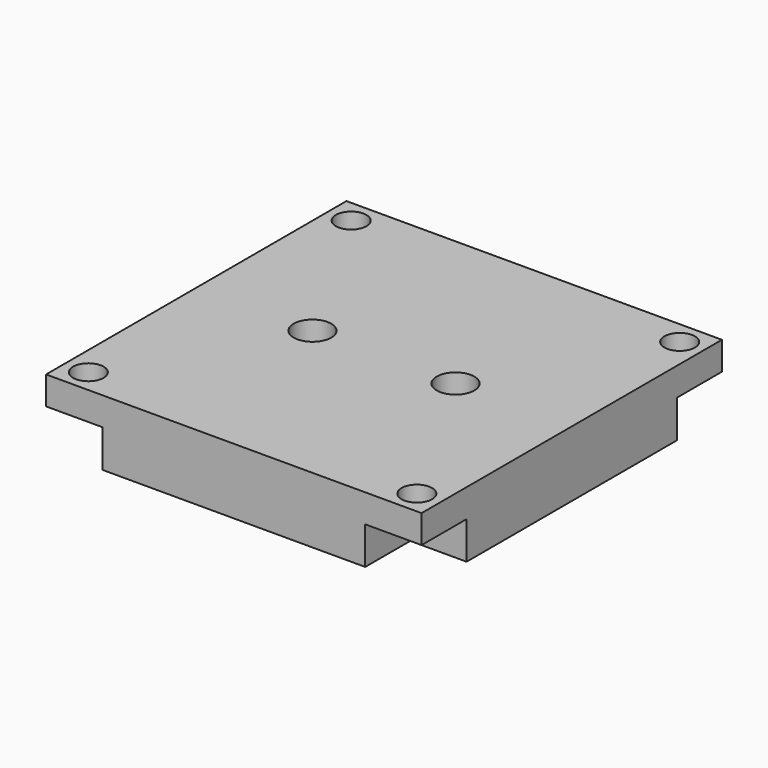
from build123d import *

# Parameters (mm, degrees)
F0_W     = 40
F0_H     = 40
F0_R     = 1.6256
F0_R_2   = 2.0066
F1_DEPTH = 7
F2_W     = 6
F2_H     = 6
F2_R     = 1.6256
F3_DEPTH = 4


with BuildPart() as f1:
    # F0 (on Top) → F1 (new body)
    with BuildSketch(Plane.XY):
        with Locations((-22.544218, -20.016475)):
            Rectangle(F0_W, F0_H)
        with Locations((-40.044218, -37.516475)):
            Circle(F0_R, mode=Mode.SUBTRACT)
        with Locations((-5.044218, -37.516475)):
            Circle(F0_R, mode=Mode.SUBTRACT)
        with Locations((-30.164218, -20.016475)):
            Circle(F0_R_2, mode=Mode.SUBTRACT)
        with Locations((-40.044218, -2.516475)):
            Circle(F0_R, mode=Mode.SUBTRACT)
        with Locations((-14.924218, -20.016475)):
            Circle(F0_R_2, mode=Mode.SUBTRACT)
        with Locations((-5.044218, -2.516475)):
            Circle(F0_R, mode=Mode.SUBTRACT)
    extrude(amount=F1_DEPTH)

    # F2 (on face) → F3 (cut)
    with BuildSketch(Plane(origin=(0, 0, 0), x_dir=(1, 0, 0), z_dir=(0, 0, -1))):
        with Locations((-39.544218, 37.016475)):
            Rectangle(F2_W, F2_H)
        with Locations((-40.044218, 37.516475)):
            Circle(F2_R, mode=Mode.SUBTRACT)
        with Locations((-5.544218, 37.016475)):
            Rectangle(F2_W, F2_H)
        with Locations((-5.044218, 37.516475)):
            Circle(F2_R, mode=Mode.SUBTRACT)
        with Locations((-5.544218, 3.016475)):
            Rectangle(F2_W, F2_H)
        with Locations((-5.044218, 2.516475)):
            Circle(F2_R, mode=Mode.SUBTRACT)
        with Locations((-39.544218, 3.016475)):
            Rectangle(F2_W, F2_H)
        with Locations((-40.044218, 2.516475)):
            Circle(F2_R, mode=Mode.SUBTRACT)
    extrude(amount=-F3_DEPTH, mode=Mode.SUBTRACT)


solid = f1.part
